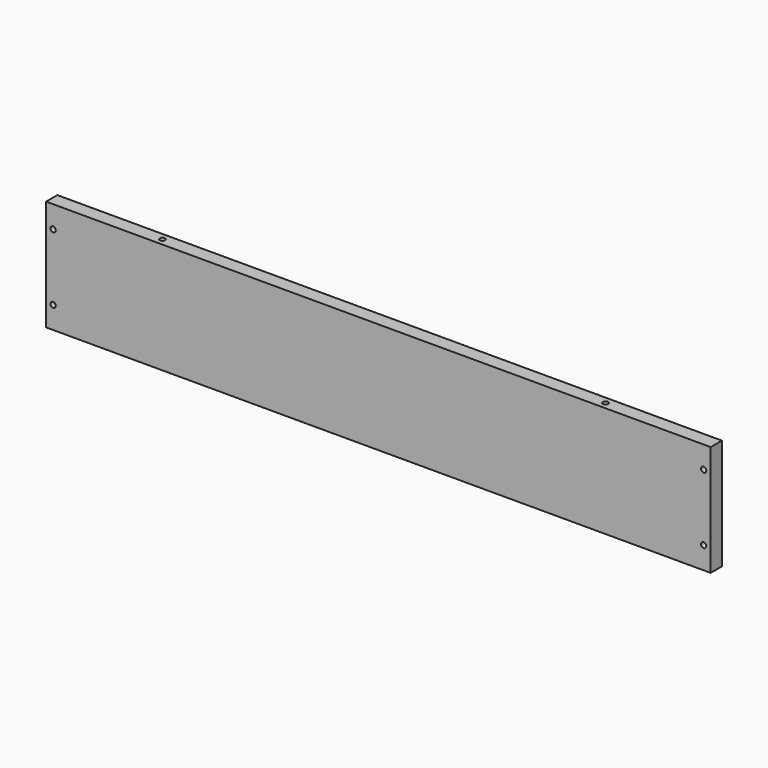
from build123d import *

# Parameters (mm, degrees)
F0_W     = 300
F0_H     = 50
F1_DEPTH = 3.175
F3_D     = 2.4
F5_D     = 2.4
F5_DEPTH = 12
F5_TIP   = 0.7210327428


with BuildPart() as f1:
    # F0 (on Front) → F1 (new body, symmetric)
    with BuildSketch(Plane.XZ):
        Rectangle(F0_W, F0_H)
    extrude(amount=F1_DEPTH, both=True)

    # F3 (through all)
    with Locations(Plane.XZ.offset(3.175)):
        with Locations((-146.825, 15), (-146.825, -15), (146.825, 15), (146.825, -15)):
            Hole(F3_D / 2)

    # F5
    with Locations(Plane.XY.offset(25)):
        with Locations((-100, 0), (100, 0)):
            Hole(F5_D / 2, depth=F5_DEPTH)
            with Locations((0, 0, -(F5_DEPTH + F5_TIP / 2))):  # 118° drill point
                Cone(0, F5_D / 2, F5_TIP, mode=Mode.SUBTRACT)


solid = f1.part
